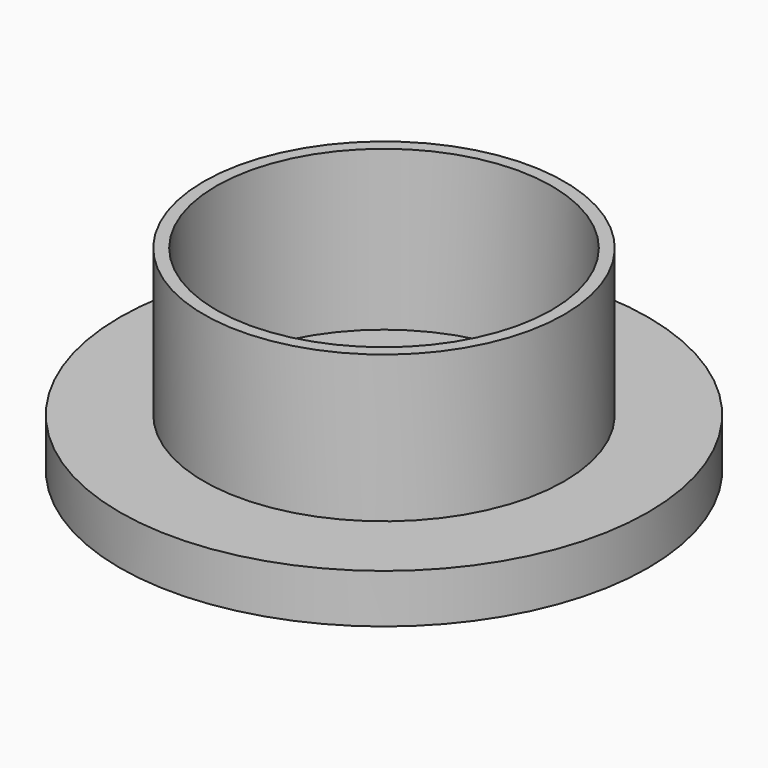
from build123d import *

# Parameters (mm, degrees)
F1_R     = 53.975
F3_DEPTH = 10
F0_R     = 36.83
F4_DEPTH = 40
F5_T     = -2.54


with BuildPart() as f3:
    # F1 (on Top) → F3 (new body)
    with BuildSketch(Plane.XY):
        Circle(F1_R)
    extrude(amount=F3_DEPTH)

    # F0 (on Top) → F4 (join)
    with BuildSketch(Plane.XY):
        Circle(F0_R)
    extrude(amount=F4_DEPTH)

    # F5
    f5_openings = [f3.faces().sort_by_distance(p)[0] for p in [
        (0, 0, 40),
    ]]
    offset(amount=F5_T, openings=f5_openings, kind=Kind.INTERSECTION)


solid = f3.part
